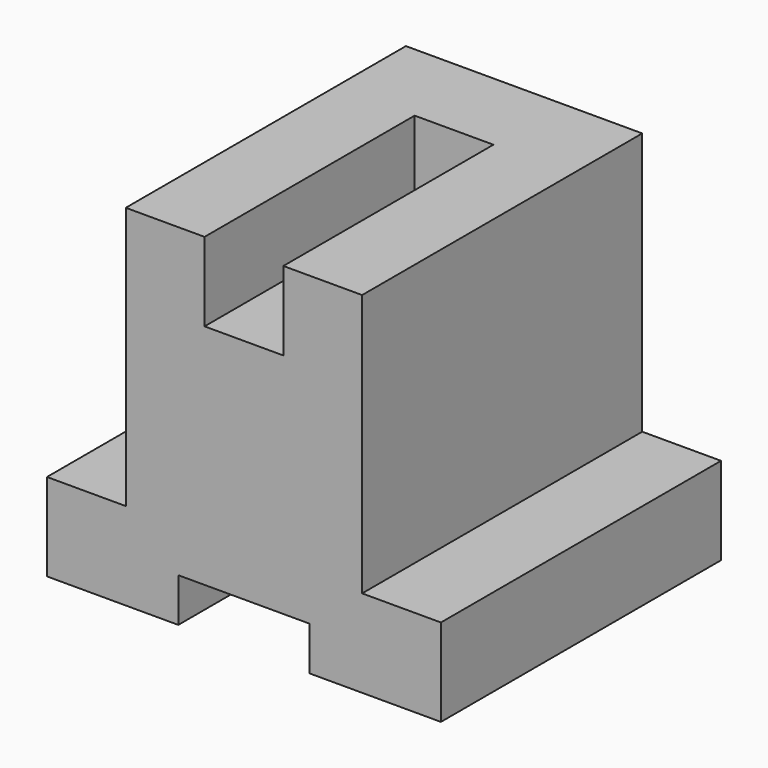
from build123d import *

# Parameters (mm, degrees)
F0_W     = 9
F0_H     = 9
F1_DEPTH = 40
F2_DEPTH = 30


with BuildPart() as f1:
    # F0 (on Front) → F1 (new body)
    with BuildSketch(Plane.XZ):
        with Locations((22.5, 35.5)):
            Rectangle(F0_W, F0_H)
        Polygon((0, 10), (0, 0), (15, 0), (15, 5), (30, 5), (30, 0), (45, 0), (45, 10), (36, 10), (36, 40), (27, 40), (27, 31), (18, 31), (18, 40), (9, 40), (9, 10), align=None)
    extrude(amount=-F1_DEPTH)

    # F0 (on Front) → F2 (cut)
    with BuildSketch(Plane.XZ):
        with Locations((22.5, 35.5)):
            Rectangle(F0_W, F0_H)
    extrude(amount=-F2_DEPTH, mode=Mode.SUBTRACT)


solid = f1.part
